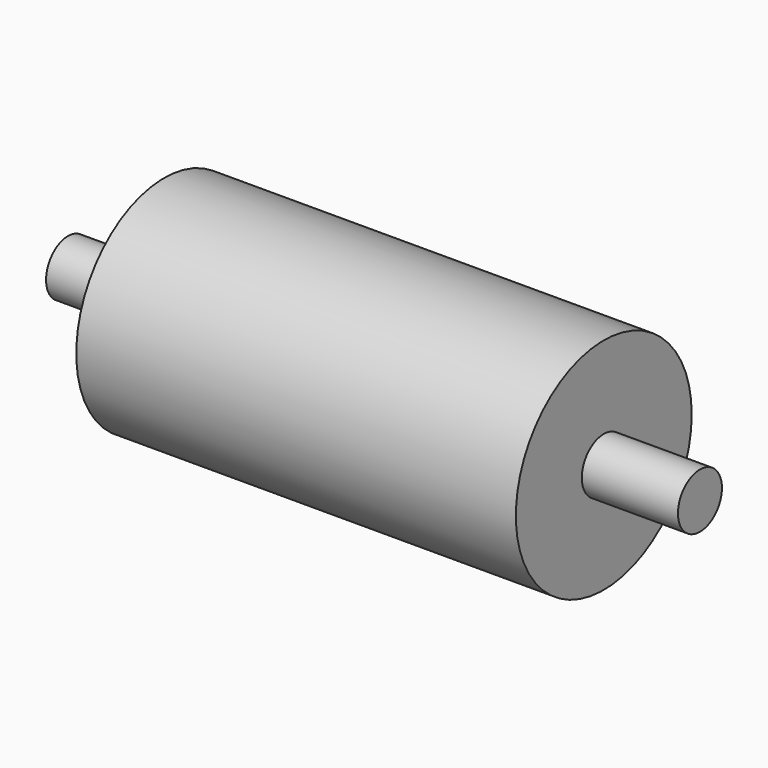
from build123d import *

# Parameters (mm, degrees)
F0_R     = 19.05
F1_DEPTH = 219.075
F2_R     = 76.2
F3_DEPTH = 152.4


with BuildPart() as f1:
    # F0 (on Right) → F1 (new body, symmetric)
    with BuildSketch(Plane.YZ):
        Circle(F0_R)
    extrude(amount=F1_DEPTH, both=True)

    # F2 (on Right) → F3 (join, symmetric)
    with BuildSketch(Plane.YZ):
        Circle(F2_R)
    extrude(amount=F3_DEPTH, both=True)


solid = f1.part
